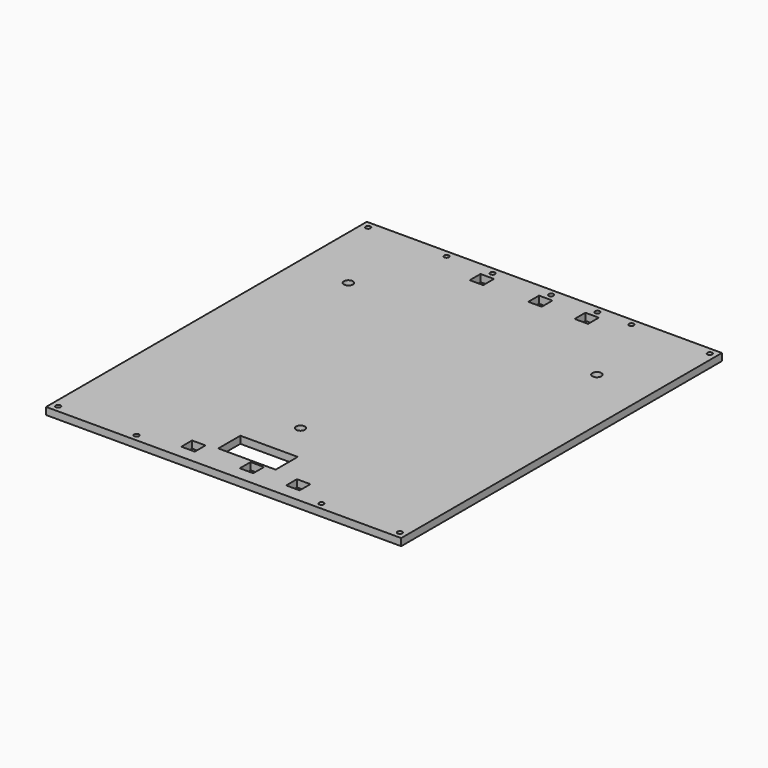
from build123d import *

# Parameters (mm, degrees)
F0_W     = 251.524948
F0_H     = 283.958055
F0_R     = 1.7272
F0_W_2   = 9.525
F0_H_2   = 9.525
F0_R_2   = 3.175
F0_W_3   = 40.64
F0_H_3   = 19.558
F1_DEPTH = 5.08


with BuildPart() as f1:
    # F0 (on Top) → F1 (new body)
    with BuildSketch(Plane.XY):
        with Locations((125.762474, -141.979028)):
            Rectangle(F0_W, F0_H)
        with Locations((4.7625, -279.195555)):
            Circle(F0_R, mode=Mode.SUBTRACT)
        with Locations((60.325, -279.195555)):
            Circle(F0_R, mode=Mode.SUBTRACT)
        with Locations((92.9275, -269.670555)):
            Rectangle(F0_W_2, F0_H_2, mode=Mode.SUBTRACT)
        with Locations((125.762474, -215.9)):
            Circle(F0_R_2, mode=Mode.SUBTRACT)
        with Locations((134.362469, -269.670555)):
            Rectangle(F0_W_2, F0_H_2, mode=Mode.SUBTRACT)
        with Locations((125.762474, -253.541555)):
            Rectangle(F0_W_3, F0_H_3, mode=Mode.SUBTRACT)
        with Locations((167.197443, -269.670555)):
            Rectangle(F0_W_2, F0_H_2, mode=Mode.SUBTRACT)
        with Locations((191.199948, -279.195555)):
            Circle(F0_R, mode=Mode.SUBTRACT)
        with Locations((246.762448, -279.195555)):
            Circle(F0_R, mode=Mode.SUBTRACT)
        with Locations((37.774293, -63.5)):
            Circle(F0_R_2, mode=Mode.SUBTRACT)
        with Locations((4.7625, -4.7625)):
            Circle(F0_R, mode=Mode.SUBTRACT)
        with Locations((60.325, -4.7625)):
            Circle(F0_R, mode=Mode.SUBTRACT)
        with Locations((92.9275, -14.2875)):
            Rectangle(F0_W_2, F0_H_2, mode=Mode.SUBTRACT)
        with Locations((92.9275, -4.7625)):
            Circle(F0_R, mode=Mode.SUBTRACT)
        with Locations((134.362469, -14.2875)):
            Rectangle(F0_W_2, F0_H_2, mode=Mode.SUBTRACT)
        with Locations((134.362469, -4.7625)):
            Circle(F0_R, mode=Mode.SUBTRACT)
        with Locations((167.197443, -14.2875)):
            Rectangle(F0_W_2, F0_H_2, mode=Mode.SUBTRACT)
        with Locations((167.197443, -4.7625)):
            Circle(F0_R, mode=Mode.SUBTRACT)
        with Locations((213.750655, -63.5)):
            Circle(F0_R_2, mode=Mode.SUBTRACT)
        with Locations((191.199948, -4.7625)):
            Circle(F0_R, mode=Mode.SUBTRACT)
        with Locations((246.762448, -4.7625)):
            Circle(F0_R, mode=Mode.SUBTRACT)
    extrude(amount=F1_DEPTH)


solid = f1.part
